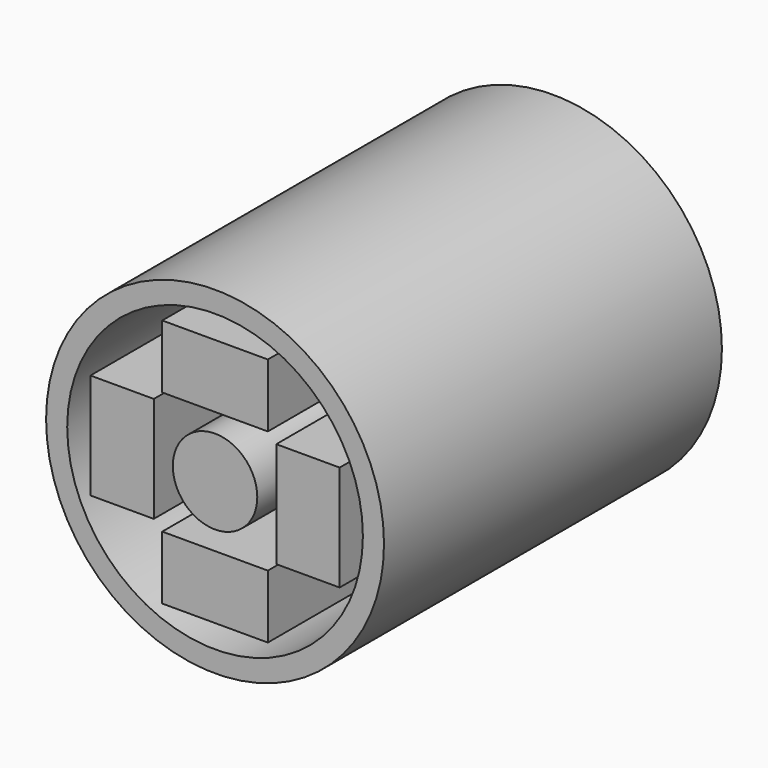
from build123d import *

# Parameters (mm, degrees)
F0_R     = 40
F0_R_2   = 35
F1_DEPTH = 50
F0_R_3   = 10
F0_W     = 25
F0_H     = 15
F2_COUNT = 4


with BuildPart() as f1:
    # F0 (on Front) → F1 (new body, symmetric)
    with BuildSketch(Plane.XZ):
        Circle(F0_R)
        Circle(F0_R_2, mode=Mode.SUBTRACT)
    extrude(amount=F1_DEPTH, both=True)


with BuildPart() as f1b:
    # F0 (on Front) → F1, piece 2 (new body, symmetric)
    with BuildSketch(Plane.XZ):
        Circle(F0_R_3)
    extrude(amount=F1_DEPTH, both=True)


with BuildPart() as f1c:
    # F0 (on Front) → F1, piece 3 (new body, symmetric)
    with BuildSketch(Plane.XZ):
        with Locations((0, 22)):
            Rectangle(F0_W, F0_H)
    extrude(amount=F1_DEPTH, both=True)


with BuildPart() as f2_1:
    # F2: instance of F1c
    add(f1c.part.rotate(Axis((0, 0, 0), (0, -1, 0)), 1 * 360 / F2_COUNT))


with BuildPart() as f2_2:
    # F2: instance of F1c
    add(f1c.part.rotate(Axis((0, 0, 0), (0, -1, 0)), 2 * 360 / F2_COUNT))


with BuildPart() as f2_3:
    # F2: instance of F1c
    add(f1c.part.rotate(Axis((0, 0, 0), (0, -1, 0)), 3 * 360 / F2_COUNT))


solid = Compound([f1.part, f1b.part, f1c.part, f2_1.part, f2_2.part, f2_3.part])
